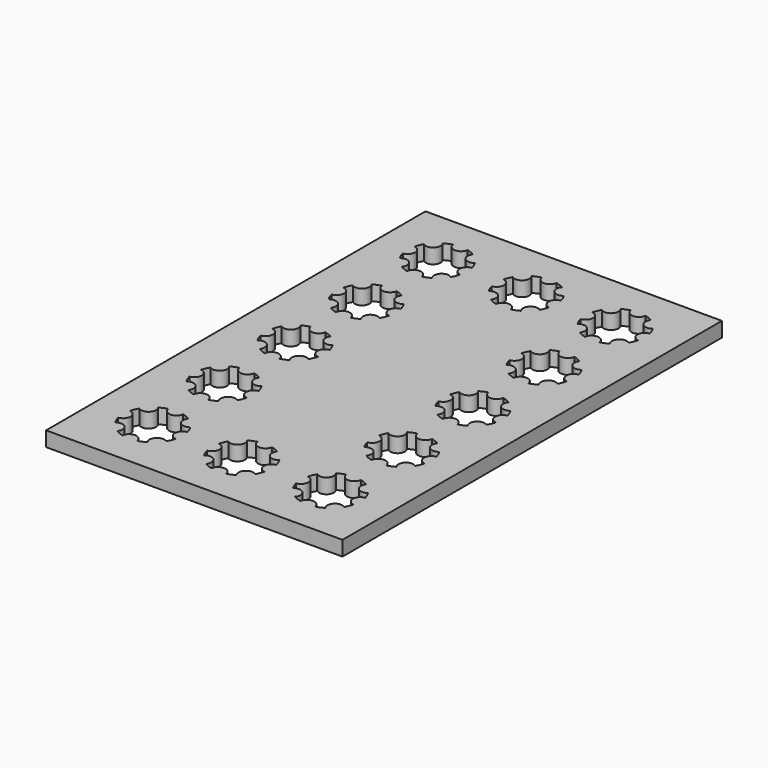
from build123d import *

# Parameters (mm, degrees)
F0_W     = 100
F0_H     = 160
F1_DEPTH = 5


with BuildPart() as f1:
    # F0 (on Top) → F1 (new body)
    with BuildSketch(Plane.XY):
        with Locations((50, -80)):
            Rectangle(F0_W, F0_H)
        with BuildLine():
            ThreePointArc((22.480392, -130.3125), (23.826834, -130.761205), (25.096195, -131.396001))
            ThreePointArc((25.096195, -131.396001), (25.303301, -134.696699), (28.603999, -134.903805))
            ThreePointArc((28.603999, -134.903805), (29.238795, -136.173166), (29.6875, -137.519608))
            ThreePointArc((29.6875, -137.519608), (27.5, -140), (29.6875, -142.480392))
            ThreePointArc((29.6875, -142.480392), (29.238795, -143.826834), (28.603999, -145.096195))
            ThreePointArc((28.603999, -145.096195), (25.303301, -145.303301), (25.096195, -148.603999))
            ThreePointArc((25.096195, -148.603999), (23.826834, -149.238795), (22.480392, -149.6875))
            ThreePointArc((22.480392, -149.6875), (20, -147.5), (17.519608, -149.6875))
            ThreePointArc((17.519608, -149.6875), (16.173166, -149.238795), (14.903805, -148.603999))
            ThreePointArc((14.903805, -148.603999), (14.696699, -145.303301), (11.396001, -145.096195))
            ThreePointArc((11.396001, -145.096195), (10.761205, -143.826834), (10.3125, -142.480392))
            ThreePointArc((10.3125, -142.480392), (12.5, -140), (10.3125, -137.519608))
            ThreePointArc((10.3125, -137.519608), (10.761205, -136.173166), (11.396001, -134.903805))
            ThreePointArc((11.396001, -134.903805), (14.696699, -134.696699), (14.903805, -131.396001))
            ThreePointArc((14.903805, -131.396001), (16.173166, -130.761205), (17.519608, -130.3125))
            ThreePointArc((17.519608, -130.3125), (20, -132.5), (22.480392, -130.3125))
        make_face(mode=Mode.SUBTRACT)
        with BuildLine():
            ThreePointArc((22.480392, -100.3125), (23.826834, -100.761205), (25.096195, -101.396001))
            ThreePointArc((25.096195, -101.396001), (25.303301, -104.696699), (28.603999, -104.903805))
            ThreePointArc((28.603999, -104.903805), (29.238795, -106.173166), (29.6875, -107.519608))
            ThreePointArc((29.6875, -107.519608), (27.5, -110), (29.6875, -112.480392))
            ThreePointArc((29.6875, -112.480392), (29.238795, -113.826834), (28.603999, -115.096195))
            ThreePointArc((28.603999, -115.096195), (25.303301, -115.303301), (25.096195, -118.603999))
            ThreePointArc((25.096195, -118.603999), (23.826834, -119.238795), (22.480392, -119.6875))
            ThreePointArc((22.480392, -119.6875), (20, -117.5), (17.519608, -119.6875))
            ThreePointArc((17.519608, -119.6875), (16.173166, -119.238795), (14.903805, -118.603999))
            ThreePointArc((14.903805, -118.603999), (14.696699, -115.303301), (11.396001, -115.096195))
            ThreePointArc((11.396001, -115.096195), (10.761205, -113.826834), (10.3125, -112.480392))
            ThreePointArc((10.3125, -112.480392), (12.5, -110), (10.3125, -107.519608))
            ThreePointArc((10.3125, -107.519608), (10.761205, -106.173166), (11.396001, -104.903805))
            ThreePointArc((11.396001, -104.903805), (14.696699, -104.696699), (14.903805, -101.396001))
            ThreePointArc((14.903805, -101.396001), (16.173166, -100.761205), (17.519608, -100.3125))
            ThreePointArc((17.519608, -100.3125), (20, -102.5), (22.480392, -100.3125))
        make_face(mode=Mode.SUBTRACT)
        with BuildLine():
            ThreePointArc((52.480392, -130.3125), (53.826834, -130.761205), (55.096195, -131.396001))
            ThreePointArc((55.096195, -131.396001), (55.303301, -134.696699), (58.603999, -134.903805))
            ThreePointArc((58.603999, -134.903805), (59.238795, -136.173166), (59.6875, -137.519608))
            ThreePointArc((59.6875, -137.519608), (57.5, -140), (59.6875, -142.480392))
            ThreePointArc((59.6875, -142.480392), (59.238795, -143.826834), (58.603999, -145.096195))
            ThreePointArc((58.603999, -145.096195), (55.303301, -145.303301), (55.096195, -148.603999))
            ThreePointArc((55.096195, -148.603999), (53.826834, -149.238795), (52.480392, -149.6875))
            ThreePointArc((52.480392, -149.6875), (50, -147.5), (47.519608, -149.6875))
            ThreePointArc((47.519608, -149.6875), (46.173166, -149.238795), (44.903805, -148.603999))
            ThreePointArc((44.903805, -148.603999), (44.696699, -145.303301), (41.396001, -145.096195))
            ThreePointArc((41.396001, -145.096195), (40.761205, -143.826834), (40.3125, -142.480392))
            ThreePointArc((40.3125, -142.480392), (42.5, -140), (40.3125, -137.519608))
            ThreePointArc((40.3125, -137.519608), (40.761205, -136.173166), (41.396001, -134.903805))
            ThreePointArc((41.396001, -134.903805), (44.696699, -134.696699), (44.903805, -131.396001))
            ThreePointArc((44.903805, -131.396001), (46.173166, -130.761205), (47.519608, -130.3125))
            ThreePointArc((47.519608, -130.3125), (50, -132.5), (52.480392, -130.3125))
        make_face(mode=Mode.SUBTRACT)
        with BuildLine():
            ThreePointArc((82.480392, -130.3125), (83.826834, -130.761205), (85.096195, -131.396001))
            ThreePointArc((85.096195, -131.396001), (85.303301, -134.696699), (88.603999, -134.903805))
            ThreePointArc((88.603999, -134.903805), (89.238795, -136.173166), (89.6875, -137.519608))
            ThreePointArc((89.6875, -137.519608), (87.5, -140), (89.6875, -142.480392))
            ThreePointArc((89.6875, -142.480392), (89.238795, -143.826834), (88.603999, -145.096195))
            ThreePointArc((88.603999, -145.096195), (85.303301, -145.303301), (85.096195, -148.603999))
            ThreePointArc((85.096195, -148.603999), (83.826834, -149.238795), (82.480392, -149.6875))
            ThreePointArc((82.480392, -149.6875), (80, -147.5), (77.519608, -149.6875))
            ThreePointArc((77.519608, -149.6875), (76.173166, -149.238795), (74.903805, -148.603999))
            ThreePointArc((74.903805, -148.603999), (74.696699, -145.303301), (71.396001, -145.096195))
            ThreePointArc((71.396001, -145.096195), (70.761205, -143.826834), (70.3125, -142.480392))
            ThreePointArc((70.3125, -142.480392), (72.5, -140), (70.3125, -137.519608))
            ThreePointArc((70.3125, -137.519608), (70.761205, -136.173166), (71.396001, -134.903805))
            ThreePointArc((71.396001, -134.903805), (74.696699, -134.696699), (74.903805, -131.396001))
            ThreePointArc((74.903805, -131.396001), (76.173166, -130.761205), (77.519608, -130.3125))
            ThreePointArc((77.519608, -130.3125), (80, -132.5), (82.480392, -130.3125))
        make_face(mode=Mode.SUBTRACT)
        with BuildLine():
            ThreePointArc((82.480392, -100.3125), (83.826834, -100.761205), (85.096195, -101.396001))
            ThreePointArc((85.096195, -101.396001), (85.303301, -104.696699), (88.603999, -104.903805))
            ThreePointArc((88.603999, -104.903805), (89.238795, -106.173166), (89.6875, -107.519608))
            ThreePointArc((89.6875, -107.519608), (87.5, -110), (89.6875, -112.480392))
            ThreePointArc((89.6875, -112.480392), (89.238795, -113.826834), (88.603999, -115.096195))
            ThreePointArc((88.603999, -115.096195), (85.303301, -115.303301), (85.096195, -118.603999))
            ThreePointArc((85.096195, -118.603999), (83.826834, -119.238795), (82.480392, -119.6875))
            ThreePointArc((82.480392, -119.6875), (80, -117.5), (77.519608, -119.6875))
            ThreePointArc((77.519608, -119.6875), (76.173166, -119.238795), (74.903805, -118.603999))
            ThreePointArc((74.903805, -118.603999), (74.696699, -115.303301), (71.396001, -115.096195))
            ThreePointArc((71.396001, -115.096195), (70.761205, -113.826834), (70.3125, -112.480392))
            ThreePointArc((70.3125, -112.480392), (72.5, -110), (70.3125, -107.519608))
            ThreePointArc((70.3125, -107.519608), (70.761205, -106.173166), (71.396001, -104.903805))
            ThreePointArc((71.396001, -104.903805), (74.696699, -104.696699), (74.903805, -101.396001))
            ThreePointArc((74.903805, -101.396001), (76.173166, -100.761205), (77.519608, -100.3125))
            ThreePointArc((77.519608, -100.3125), (80, -102.5), (82.480392, -100.3125))
        make_face(mode=Mode.SUBTRACT)
        with BuildLine():
            ThreePointArc((22.480392, -70.3125), (23.826834, -70.761205), (25.096195, -71.396001))
            ThreePointArc((25.096195, -71.396001), (25.303301, -74.696699), (28.603999, -74.903805))
            ThreePointArc((28.603999, -74.903805), (29.238795, -76.173166), (29.6875, -77.519608))
            ThreePointArc((29.6875, -77.519608), (27.5, -80), (29.6875, -82.480392))
            ThreePointArc((29.6875, -82.480392), (29.238795, -83.826834), (28.603999, -85.096195))
            ThreePointArc((28.603999, -85.096195), (25.303301, -85.303301), (25.096195, -88.603999))
            ThreePointArc((25.096195, -88.603999), (23.826834, -89.238795), (22.480392, -89.6875))
            ThreePointArc((22.480392, -89.6875), (20, -87.5), (17.519608, -89.6875))
            ThreePointArc((17.519608, -89.6875), (16.173166, -89.238795), (14.903805, -88.603999))
            ThreePointArc((14.903805, -88.603999), (14.696699, -85.303301), (11.396001, -85.096195))
            ThreePointArc((11.396001, -85.096195), (10.761205, -83.826834), (10.3125, -82.480392))
            ThreePointArc((10.3125, -82.480392), (12.5, -80), (10.3125, -77.519608))
            ThreePointArc((10.3125, -77.519608), (10.761205, -76.173166), (11.396001, -74.903805))
            ThreePointArc((11.396001, -74.903805), (14.696699, -74.696699), (14.903805, -71.396001))
            ThreePointArc((14.903805, -71.396001), (16.173166, -70.761205), (17.519608, -70.3125))
            ThreePointArc((17.519608, -70.3125), (20, -72.5), (22.480392, -70.3125))
        make_face(mode=Mode.SUBTRACT)
        with BuildLine():
            ThreePointArc((22.480392, -40.3125), (23.826834, -40.761205), (25.096195, -41.396001))
            ThreePointArc((25.096195, -41.396001), (25.303301, -44.696699), (28.603999, -44.903805))
            ThreePointArc((28.603999, -44.903805), (29.238795, -46.173166), (29.6875, -47.519608))
            ThreePointArc((29.6875, -47.519608), (27.5, -50), (29.6875, -52.480392))
            ThreePointArc((29.6875, -52.480392), (29.238795, -53.826834), (28.603999, -55.096195))
            ThreePointArc((28.603999, -55.096195), (25.303301, -55.303301), (25.096195, -58.603999))
            ThreePointArc((25.096195, -58.603999), (23.826834, -59.238795), (22.480392, -59.6875))
            ThreePointArc((22.480392, -59.6875), (20, -57.5), (17.519608, -59.6875))
            ThreePointArc((17.519608, -59.6875), (16.173166, -59.238795), (14.903805, -58.603999))
            ThreePointArc((14.903805, -58.603999), (14.696699, -55.303301), (11.396001, -55.096195))
            ThreePointArc((11.396001, -55.096195), (10.761205, -53.826834), (10.3125, -52.480392))
            ThreePointArc((10.3125, -52.480392), (12.5, -50), (10.3125, -47.519608))
            ThreePointArc((10.3125, -47.519608), (10.761205, -46.173166), (11.396001, -44.903805))
            ThreePointArc((11.396001, -44.903805), (14.696699, -44.696699), (14.903805, -41.396001))
            ThreePointArc((14.903805, -41.396001), (16.173166, -40.761205), (17.519608, -40.3125))
            ThreePointArc((17.519608, -40.3125), (20, -42.5), (22.480392, -40.3125))
        make_face(mode=Mode.SUBTRACT)
        with BuildLine():
            ThreePointArc((22.480392, -10.3125), (23.826834, -10.761205), (25.096195, -11.396001))
            ThreePointArc((25.096195, -11.396001), (25.303301, -14.696699), (28.603999, -14.903805))
            ThreePointArc((28.603999, -14.903805), (29.238795, -16.173166), (29.6875, -17.519608))
            ThreePointArc((29.6875, -17.519608), (27.5, -20), (29.6875, -22.480392))
            ThreePointArc((29.6875, -22.480392), (29.238795, -23.826834), (28.603999, -25.096195))
            ThreePointArc((28.603999, -25.096195), (25.303301, -25.303301), (25.096195, -28.603999))
            ThreePointArc((25.096195, -28.603999), (23.826834, -29.238795), (22.480392, -29.6875))
            ThreePointArc((22.480392, -29.6875), (20, -27.5), (17.519608, -29.6875))
            ThreePointArc((17.519608, -29.6875), (16.173166, -29.238795), (14.903805, -28.603999))
            ThreePointArc((14.903805, -28.603999), (14.696699, -25.303301), (11.396001, -25.096195))
            ThreePointArc((11.396001, -25.096195), (10.761205, -23.826834), (10.3125, -22.480392))
            ThreePointArc((10.3125, -22.480392), (12.5, -20), (10.3125, -17.519608))
            ThreePointArc((10.3125, -17.519608), (10.761205, -16.173166), (11.396001, -14.903805))
            ThreePointArc((11.396001, -14.903805), (14.696699, -14.696699), (14.903805, -11.396001))
            ThreePointArc((14.903805, -11.396001), (16.173166, -10.761205), (17.519608, -10.3125))
            ThreePointArc((17.519608, -10.3125), (20, -12.5), (22.480392, -10.3125))
        make_face(mode=Mode.SUBTRACT)
        with BuildLine():
            ThreePointArc((82.480392, -70.3125), (83.826834, -70.761205), (85.096195, -71.396001))
            ThreePointArc((85.096195, -71.396001), (85.303301, -74.696699), (88.603999, -74.903805))
            ThreePointArc((88.603999, -74.903805), (89.238795, -76.173166), (89.6875, -77.519608))
            ThreePointArc((89.6875, -77.519608), (87.5, -80), (89.6875, -82.480392))
            ThreePointArc((89.6875, -82.480392), (89.238795, -83.826834), (88.603999, -85.096195))
            ThreePointArc((88.603999, -85.096195), (85.303301, -85.303301), (85.096195, -88.603999))
            ThreePointArc((85.096195, -88.603999), (83.826834, -89.238795), (82.480392, -89.6875))
            ThreePointArc((82.480392, -89.6875), (80, -87.5), (77.519608, -89.6875))
            ThreePointArc((77.519608, -89.6875), (76.173166, -89.238795), (74.903805, -88.603999))
            ThreePointArc((74.903805, -88.603999), (74.696699, -85.303301), (71.396001, -85.096195))
            ThreePointArc((71.396001, -85.096195), (70.761205, -83.826834), (70.3125, -82.480392))
            ThreePointArc((70.3125, -82.480392), (72.5, -80), (70.3125, -77.519608))
            ThreePointArc((70.3125, -77.519608), (70.761205, -76.173166), (71.396001, -74.903805))
            ThreePointArc((71.396001, -74.903805), (74.696699, -74.696699), (74.903805, -71.396001))
            ThreePointArc((74.903805, -71.396001), (76.173166, -70.761205), (77.519608, -70.3125))
            ThreePointArc((77.519608, -70.3125), (80, -72.5), (82.480392, -70.3125))
        make_face(mode=Mode.SUBTRACT)
        with BuildLine():
            ThreePointArc((82.480392, -40.3125), (83.826834, -40.761205), (85.096195, -41.396001))
            ThreePointArc((85.096195, -41.396001), (85.303301, -44.696699), (88.603999, -44.903805))
            ThreePointArc((88.603999, -44.903805), (89.238795, -46.173166), (89.6875, -47.519608))
            ThreePointArc((89.6875, -47.519608), (87.5, -50), (89.6875, -52.480392))
            ThreePointArc((89.6875, -52.480392), (89.238795, -53.826834), (88.603999, -55.096195))
            ThreePointArc((88.603999, -55.096195), (85.303301, -55.303301), (85.096195, -58.603999))
            ThreePointArc((85.096195, -58.603999), (83.826834, -59.238795), (82.480392, -59.6875))
            ThreePointArc((82.480392, -59.6875), (80, -57.5), (77.519608, -59.6875))
            ThreePointArc((77.519608, -59.6875), (76.173166, -59.238795), (74.903805, -58.603999))
            ThreePointArc((74.903805, -58.603999), (74.696699, -55.303301), (71.396001, -55.096195))
            ThreePointArc((71.396001, -55.096195), (70.761205, -53.826834), (70.3125, -52.480392))
            ThreePointArc((70.3125, -52.480392), (72.5, -50), (70.3125, -47.519608))
            ThreePointArc((70.3125, -47.519608), (70.761205, -46.173166), (71.396001, -44.903805))
            ThreePointArc((71.396001, -44.903805), (74.696699, -44.696699), (74.903805, -41.396001))
            ThreePointArc((74.903805, -41.396001), (76.173166, -40.761205), (77.519608, -40.3125))
            ThreePointArc((77.519608, -40.3125), (80, -42.5), (82.480392, -40.3125))
        make_face(mode=Mode.SUBTRACT)
        with BuildLine():
            ThreePointArc((52.480392, -10.3125), (53.826834, -10.761205), (55.096195, -11.396001))
            ThreePointArc((55.096195, -11.396001), (55.303301, -14.696699), (58.603999, -14.903805))
            ThreePointArc((58.603999, -14.903805), (59.238795, -16.173166), (59.6875, -17.519608))
            ThreePointArc((59.6875, -17.519608), (57.5, -20), (59.6875, -22.480392))
            ThreePointArc((59.6875, -22.480392), (59.238795, -23.826834), (58.603999, -25.096195))
            ThreePointArc((58.603999, -25.096195), (55.303301, -25.303301), (55.096195, -28.603999))
            ThreePointArc((55.096195, -28.603999), (53.826834, -29.238795), (52.480392, -29.6875))
            ThreePointArc((52.480392, -29.6875), (50, -27.5), (47.519608, -29.6875))
            ThreePointArc((47.519608, -29.6875), (46.173166, -29.238795), (44.903805, -28.603999))
            ThreePointArc((44.903805, -28.603999), (44.696699, -25.303301), (41.396001, -25.096195))
            ThreePointArc((41.396001, -25.096195), (40.761205, -23.826834), (40.3125, -22.480392))
            ThreePointArc((40.3125, -22.480392), (42.5, -20), (40.3125, -17.519608))
            ThreePointArc((40.3125, -17.519608), (40.761205, -16.173166), (41.396001, -14.903805))
            ThreePointArc((41.396001, -14.903805), (44.696699, -14.696699), (44.903805, -11.396001))
            ThreePointArc((44.903805, -11.396001), (46.173166, -10.761205), (47.519608, -10.3125))
            ThreePointArc((47.519608, -10.3125), (50, -12.5), (52.480392, -10.3125))
        make_face(mode=Mode.SUBTRACT)
        with BuildLine():
            ThreePointArc((82.480392, -10.3125), (83.826834, -10.761205), (85.096195, -11.396001))
            ThreePointArc((85.096195, -11.396001), (85.303301, -14.696699), (88.603999, -14.903805))
            ThreePointArc((88.603999, -14.903805), (89.238795, -16.173166), (89.6875, -17.519608))
            ThreePointArc((89.6875, -17.519608), (87.5, -20), (89.6875, -22.480392))
            ThreePointArc((89.6875, -22.480392), (89.238795, -23.826834), (88.603999, -25.096195))
            ThreePointArc((88.603999, -25.096195), (85.303301, -25.303301), (85.096195, -28.603999))
            ThreePointArc((85.096195, -28.603999), (83.826834, -29.238795), (82.480392, -29.6875))
            ThreePointArc((82.480392, -29.6875), (80, -27.5), (77.519608, -29.6875))
            ThreePointArc((77.519608, -29.6875), (76.173166, -29.238795), (74.903805, -28.603999))
            ThreePointArc((74.903805, -28.603999), (74.696699, -25.303301), (71.396001, -25.096195))
            ThreePointArc((71.396001, -25.096195), (70.761205, -23.826834), (70.3125, -22.480392))
            ThreePointArc((70.3125, -22.480392), (72.5, -20), (70.3125, -17.519608))
            ThreePointArc((70.3125, -17.519608), (70.761205, -16.173166), (71.396001, -14.903805))
            ThreePointArc((71.396001, -14.903805), (74.696699, -14.696699), (74.903805, -11.396001))
            ThreePointArc((74.903805, -11.396001), (76.173166, -10.761205), (77.519608, -10.3125))
            ThreePointArc((77.519608, -10.3125), (80, -12.5), (82.480392, -10.3125))
        make_face(mode=Mode.SUBTRACT)
    extrude(amount=F1_DEPTH)


solid = f1.part
